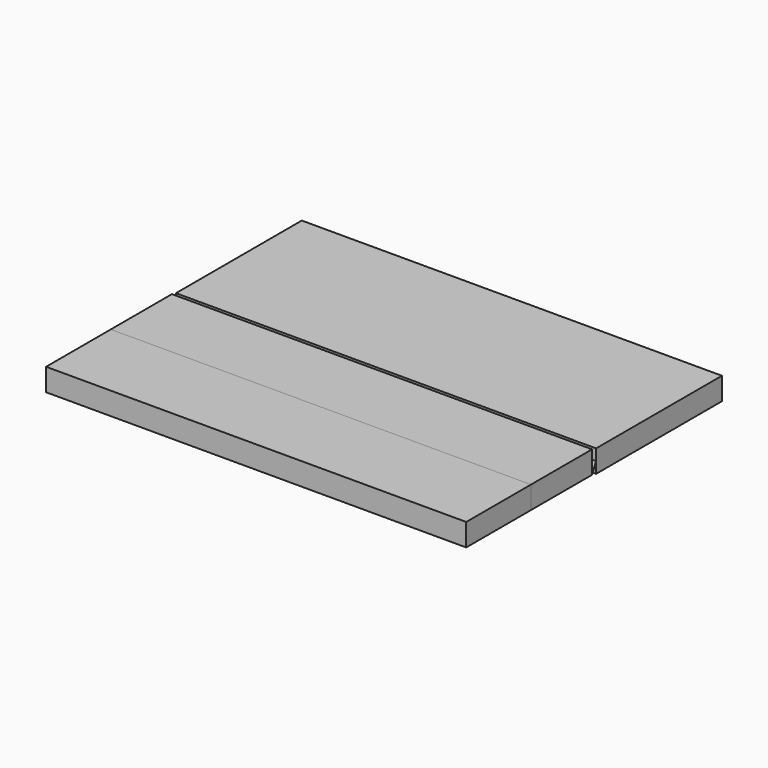
from build123d import *

# Parameters (mm, degrees)
F0_W     = 360
F0_H     = 100
F1_DEPTH = 1870
F2_DEPTH = 1870
F3_DEPTH = 1870
F4_DEPTH = 1870


with BuildPart() as f1:
    # F0 (on Right) → F1 (new body)
    with BuildSketch(Plane.YZ):
        with Locations((-1025.940814, -35.353306)):
            Rectangle(F0_W, F0_H)
    extrude(amount=F1_DEPTH)


with BuildPart() as f2:
    # F0 (on Right) → F2 (new body)
    with BuildSketch(Plane.YZ):
        Polygon((-505.940814, 14.646694), (-845.940814, 14.646694), (-845.940814, -85.353306), (-505.940814, -85.353306), (-506.060747, -84.481298), (-505.940814, -84.243691), align=None)
    extrude(amount=F2_DEPTH)


with BuildPart() as f3:
    # F0 (on Right) → F3 (new body)
    with BuildSketch(Plane.YZ):
        Polygon((-483.410478, 9.282822), (-483.410478, -40.717178), (-483.410478, -90.717178), (216.589522, -90.717178), (216.589522, 9.282822), align=None)
    extrude(amount=F3_DEPTH)


with BuildPart() as f4:
    # F0 (on Right) → F4 (new body)
    with BuildSketch(Plane.YZ):
        Polygon((-505.940814, -84.243691), (-505.940814, -85.353306), (-483.410478, -40.717178), (-483.856839, -40.491875), align=None)
    extrude(amount=F4_DEPTH)


solid = Compound([f1.part, f2.part, f3.part, f4.part])
